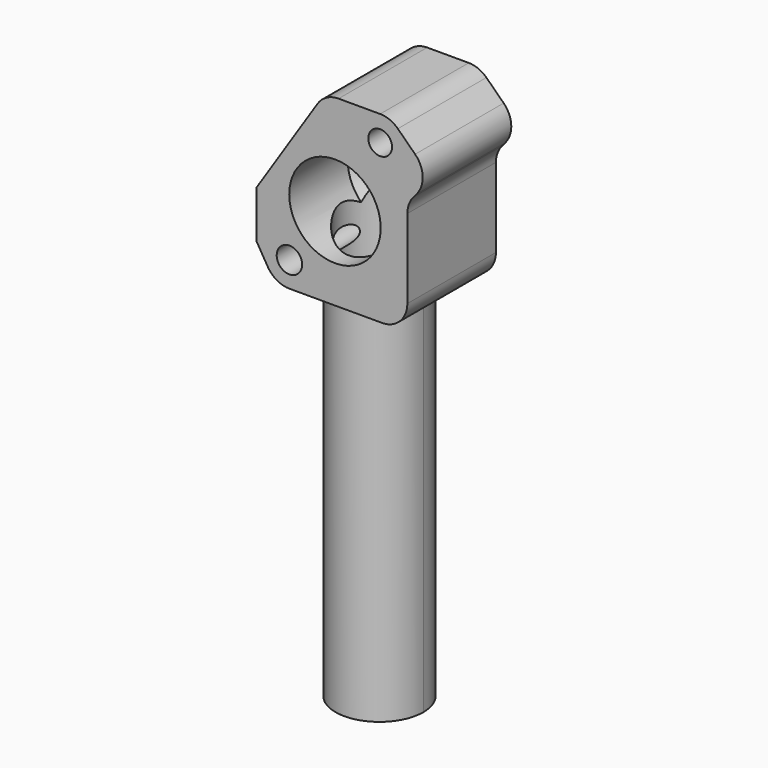
from build123d import *

# Parameters (mm, degrees)
F0_R     = 2.6468200674
F0_R_2   = 2.4751284116
F1_DEPTH = 23.0632
F3_D     = 19.05
F3_DEPTH = 15.24
F3_TIP   = 5.7231973962
F5_D     = 15.748
F5_DEPTH = 17.78
F5_TIP   = 4.7311765142
F6_DEPTH = 76.2
F7_D     = 15.748
F7_DEPTH = 78.74
F7_TIP   = 4.7311765142


with BuildPart() as f1:
    # F0 (on Front) → F1 (new body)
    with BuildSketch(Plane.XZ):
        with BuildLine():
            ThreePointArc((-13.3964658612, 6.7509404916), (-11.4760473771, 4.8729949891), (-8.8789812826, 4.1874775452))
            Line((-8.8789812826, 4.1874775452), (10.0976222454, 4.1874775452))
            Line((10.0976222454, 4.1874775452), (10.4250187174, 4.1874775452))
            ThreePointArc((10.4250187174, 4.1874775452), (14.1459697805, 5.7287459405), (15.6872381758, 9.4496970036))
            Line((15.6872381758, 9.4496970036), (15.6872381758, 25.9596970036))
            ThreePointArc((15.6872381758, 25.9596970036), (16.0113150838, 27.7778559021), (16.9436288703, 29.3720700112))
            Line((16.9436288703, 29.3720700112), (17.6345340249, 30.1831324991))
            ThreePointArc((17.6345340249, 30.1831324991), (18.8853795407, 33.8370197817), (17.3047602431, 37.3608173659))
            Line((17.3047602431, 37.3608173659), (13.7047539976, 40.875485311))
            ThreePointArc((13.7047539976, 40.875485311), (12.0132715508, 41.9838194669), (10.0286990154, 42.3723929102))
            Line((10.0286990154, 42.3723929102), (1.3647818566, 42.3723929102))
            ThreePointArc((1.3647818566, 42.3723929102), (-1.1423679176, 41.7367438487), (-3.0438160811, 39.9833629429))
            Line((-3.0438160811, 39.9833629429), (-15.6918746521, 20.5762875984))
            Line((-15.6918746521, 20.5762875984), (-15.6918746521, 10.5932559313))
            Line((-15.6918746521, 10.5932559313), (-13.3964658612, 6.7509404916))
        make_face()
        with Locations((-8.8789812826, 9.4496970036)):
            Circle(F0_R, mode=Mode.SUBTRACT)
        with Locations((10.0286990154, 37.1101734518)):
            Circle(F0_R_2, mode=Mode.SUBTRACT)
    extrude(amount=F1_DEPTH)

    # F3
    with Locations(Plane.XZ.offset(23.0632)):
        with Locations((0.6101487425, 21.472733464)):
            Hole(F3_D / 2, depth=F3_DEPTH)
            with Locations((0, 0, -(F3_DEPTH + F3_TIP / 2))):  # 118° drill point
                Cone(0, F3_D / 2, F3_TIP, mode=Mode.SUBTRACT)

    # F5
    with Locations(Plane(origin=(0, 0, 4.1874775452), x_dir=(1, 0, 0), z_dir=(0, 0, -1))):
        with Locations((0.7486785246, 11.6532988795)):
            Hole(F5_D / 2, depth=F5_DEPTH)
            with Locations((0, 0, -(F5_DEPTH + F5_TIP / 2))):  # 118° drill point
                Cone(0, F5_D / 2, F5_TIP, mode=Mode.SUBTRACT)

    # F4 (on face) → F6 (join)
    with BuildSketch(Plane(origin=(0, 0, 4.1874775452), x_dir=(1, 0, 0), z_dir=(0, 0, -1))):
        with BuildLine():
            ThreePointArc((9.8926785246, 11.6532988795), (-5.4467560676, 18.3785740571), (0, 2.54))
            ThreePointArc((0, 2.54), (6.9441131167, 4.9280237019), (9.8926785246, 11.6532988795))
        make_face()
    extrude(amount=F6_DEPTH)

    # F7 (one way)
    with BuildSketch(Plane.XY.offset(4.1874775452)):
        with Locations((0.7486785246, -11.6532988795)):
            Circle(F7_D / 2)
    extrude(amount=-F7_DEPTH, mode=Mode.SUBTRACT)
    with Locations(Plane.XY.offset(4.1874775452)):
        with Locations((0.7486785246, -11.6532988795)):
            with Locations((0, 0, -(F7_DEPTH + F7_TIP / 2))):  # 118° drill point
                Cone(0, F7_D / 2, F7_TIP, mode=Mode.SUBTRACT)


solid = f1.part
